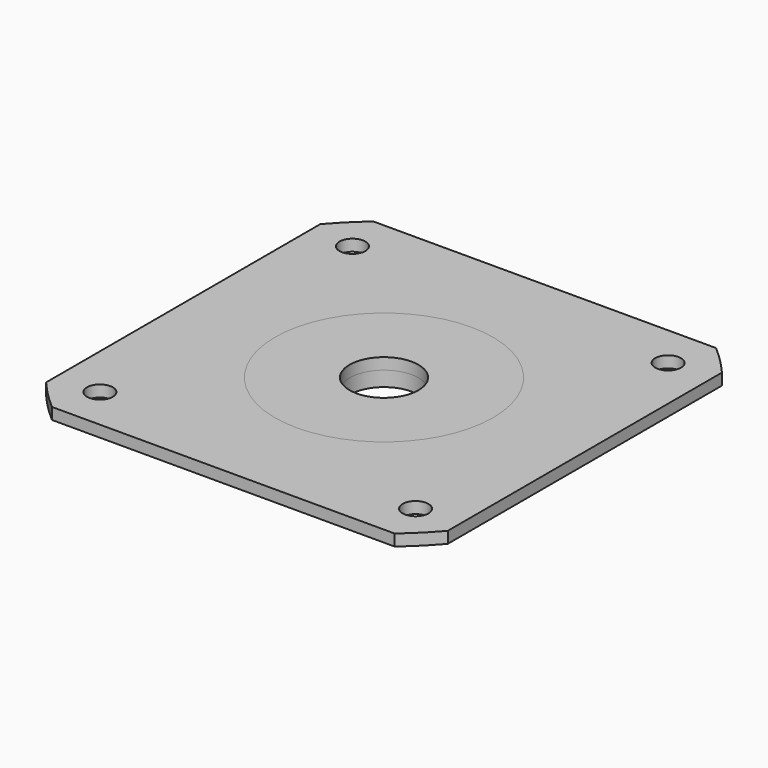
from build123d import *

# Parameters (mm, degrees)
F0_R     = 2.25
F0_R_2   = 6
F1_DEPTH = 2
F2_R     = 19
F2_R_2   = 6
F3_DEPTH = 4.6


with BuildPart() as f1:
    # F0 (on Top) → F1 (new body)
    with BuildSketch(Plane.XY):
        with BuildLine():
            Line((29.849623, 35), (-29.849623, 35))
            ThreePointArc((-29.849623, 35), (-32.526912, 32.526912), (-35, 29.849623))
            Line((-35, 29.849623), (-35, -29.849623))
            ThreePointArc((-35, -29.849623), (-32.526912, -32.526912), (-29.849623, -35))
            Line((-29.849623, -35), (29.849623, -35))
            ThreePointArc((29.849623, -35), (32.526912, -32.526912), (35, -29.849623))
            Line((35, -29.849623), (35, 29.849623))
            ThreePointArc((35, 29.849623), (32.526912, 32.526912), (29.849623, 35))
        make_face()
        with Locations((-27.5, -27.5)):
            Circle(F0_R, mode=Mode.SUBTRACT)
        with Locations((27.5, -27.5)):
            Circle(F0_R, mode=Mode.SUBTRACT)
        Circle(F0_R_2, mode=Mode.SUBTRACT)
        with Locations((-27.5, 27.5)):
            Circle(F0_R, mode=Mode.SUBTRACT)
        with Locations((27.5, 27.5)):
            Circle(F0_R, mode=Mode.SUBTRACT)
    extrude(amount=F1_DEPTH)

    # F2 (on face) → F3 (join)
    with BuildSketch(Plane.XY.offset(2)):
        Circle(F2_R)
        Circle(F2_R_2, mode=Mode.SUBTRACT)
    extrude(amount=-F3_DEPTH)


solid = f1.part
